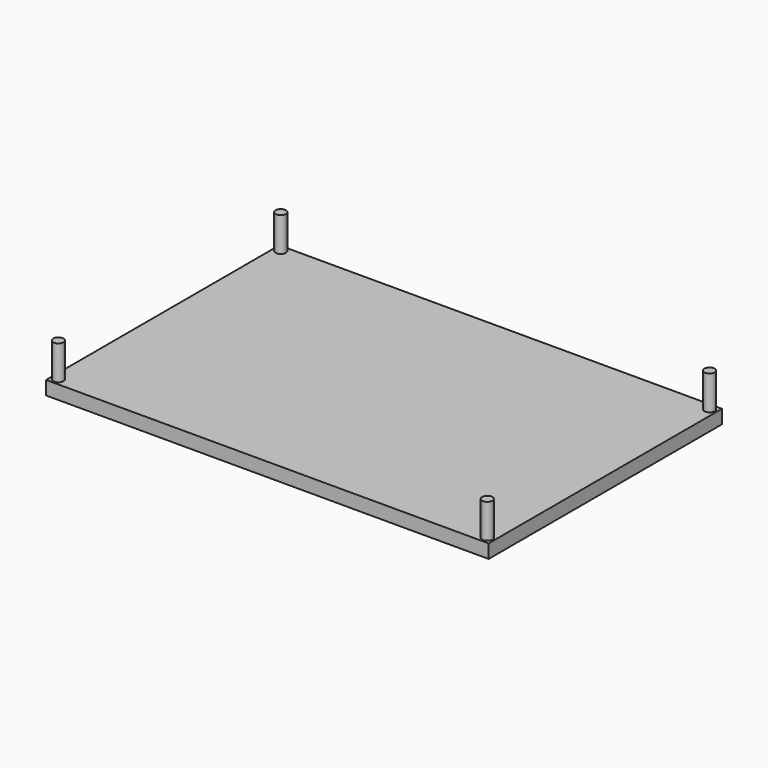
from build123d import *

# Parameters (mm, degrees)
F2_DEPTH = 5.08
F1_R     = 1.905
F3_DEPTH = 12.7


with BuildPart() as f2:
    # F0 (on Top) → F2 (new body)
    with BuildSketch(Plane.XY):
        Polygon((89.55228, 53.388856), (-26.639517, 53.388856), (-64.403486, 53.388856), (-69.483486, 53.388856), (-69.483486, 48.308856), (-69.483486, -49.658944), (-69.483486, -54.738944), (-64.403486, -54.738944), (-26.639517, -54.738944), (89.55228, -54.738944), (94.63228, -54.738944), (94.63228, 12.150785), (94.63228, 53.388856), align=None)
    extrude(amount=-F2_DEPTH)

    # F1 (on Top) → F3 (join)
    with BuildSketch(Plane.XY):
        with Locations((-66.943486, -52.198944)):
            Circle(F1_R)
        with Locations((-66.943486, 50.848856)):
            Circle(F1_R)
        with Locations((92.09228, 50.848856)):
            Circle(F1_R)
        with Locations((92.09228, -52.198944)):
            Circle(F1_R)
    extrude(amount=F3_DEPTH)


solid = f2.part
